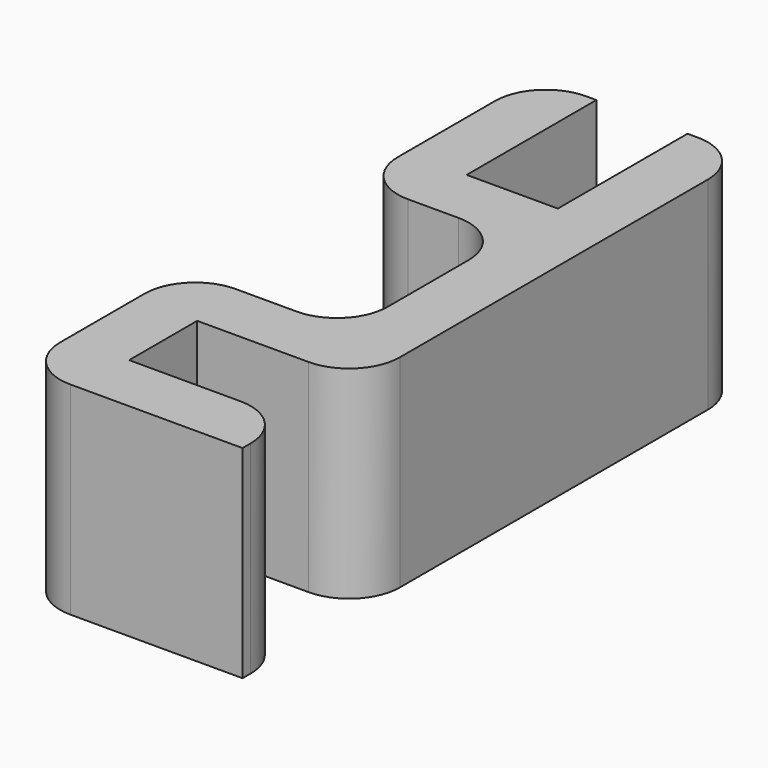
from build123d import *

# Parameters (mm, degrees)
F0_W     = 6
F0_H     = 20
F0_H_2   = 8.4
F0_H_3   = 16
F1_DEPTH = 20
F2_R     = 5


with BuildPart() as f1:
    # F0 (on Top) → F1 (new body)
    with BuildSketch(Plane.XY):
        with Locations((3, 10)):
            Rectangle(F0_W, F0_H)
        Polygon((6, 0), (0, 0), (-16, 0), (-16, -6), (-10, -6), (6, -6), align=None)
        Polygon((-15, 20), (0, 20), (6, 20), (6, 26), (0, 26), (-9, 26), (-15, 26), align=None)
        with Locations((-13, -10.2)):
            Rectangle(F0_W, F0_H_2)
        with Locations((3, 34)):
            Rectangle(F0_W, F0_H_3)
        with Locations((-12, 34)):
            Rectangle(F0_W, F0_H_3)
        Polygon((-10, -14.4), (-16, -14.4), (-16, -20.4), (6, -20.4), (6, -14.4), align=None)
    extrude(amount=F1_DEPTH)

    # F2
    f2_edges = [f1.edges().sort_by_distance(p)[0] for p in [
        (6, 42, 10),
        (-15, 42, 10),
        (-15, 20, 10),
        (-16, 0, 10),
        (0, 20, 10),
        (0, 0, 10),
        (-16, -20.4, 10),
        (6, -6, 10),
        (6, -14.4, 10),
    ]]
    fillet(f2_edges, radius=F2_R)


solid = f1.part
